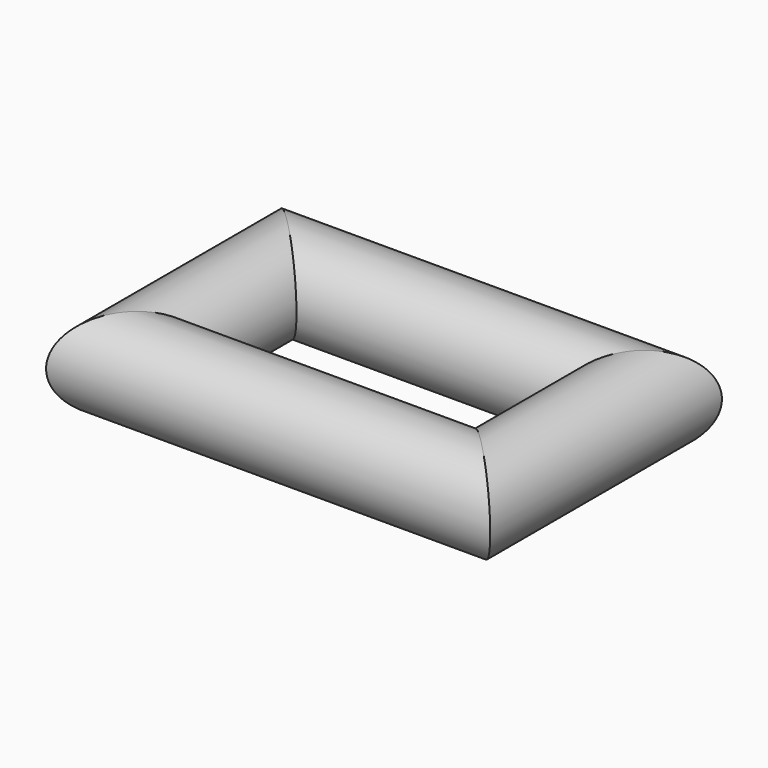
from build123d import *

# Parameters (mm, degrees)
F1_R = 17.2748013548


with BuildPart() as f2:
    # F2: sweep along a path in F0
    with BuildLine(Plane.XY) as f2_path:
        Line((-41.4473712444, 23.8679684699), (40.58983922, 23.8679684699))
        Line((40.58983922, 23.8679684699), (40.58983922, 48.7363897264))
        Line((40.58983922, 48.7363897264), (-41.4473712444, 48.7363897264))
        Line((-41.4473712444, 48.7363897264), (-41.4473712444, 23.8679684699))
    # F1 (on Right) → F2 (sweep)
    with BuildSketch(Plane.YZ):
        Circle(F1_R)
    sweep(path=f2_path.line, transition=Transition.RIGHT)


solid = f2.part
